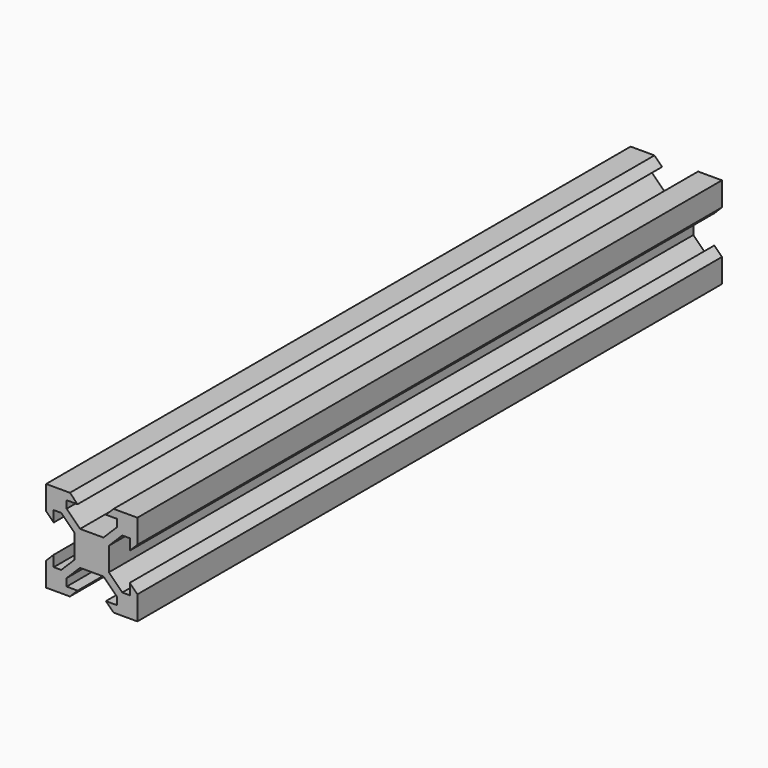
from build123d import *

# Parameters (mm, degrees)
F1_DEPTH = 80


with BuildPart() as f1:
    # F0 (on Front) → F1 (new body, symmetric)
    with BuildSketch(Plane.XZ):
        Polygon((-4.775, 10), (-10, 10), (-10, 4.775), (-8.325, 3.1), (-8.325, 5.5), (-6.684404, 5.5), (-3.75, 2.565596), (-3.75, 0), (-3.75, -2.565596), (-6.684404, -5.5), (-8.325, -5.5), (-8.325, -3.1), (-10, -4.775), (-10, -10), (-4.775, -10), (-3.1, -8.325), (-5.5, -8.325), (-5.5, -6.684404), (-2.565596, -3.75), (0, -3.75), (2.565596, -3.75), (5.5, -6.684404), (5.5, -8.325), (3.1, -8.325), (4.775, -10), (10, -10), (10, -4.775), (8.325, -3.1), (8.325, -5.5), (6.684404, -5.5), (3.75, -2.565596), (3.75, 0), (3.75, 2.565596), (6.684404, 5.5), (8.325, 5.5), (8.325, 3.1), (10, 4.775), (10, 10), (4.775, 10), (3.1, 8.325), (5.5, 8.325), (5.5, 6.684404), (2.565596, 3.75), (0, 3.75), (-2.565596, 3.75), (-5.5, 6.684404), (-5.5, 8.325), (-3.1, 8.325), align=None)
    extrude(amount=F1_DEPTH, both=True)


solid = f1.part
